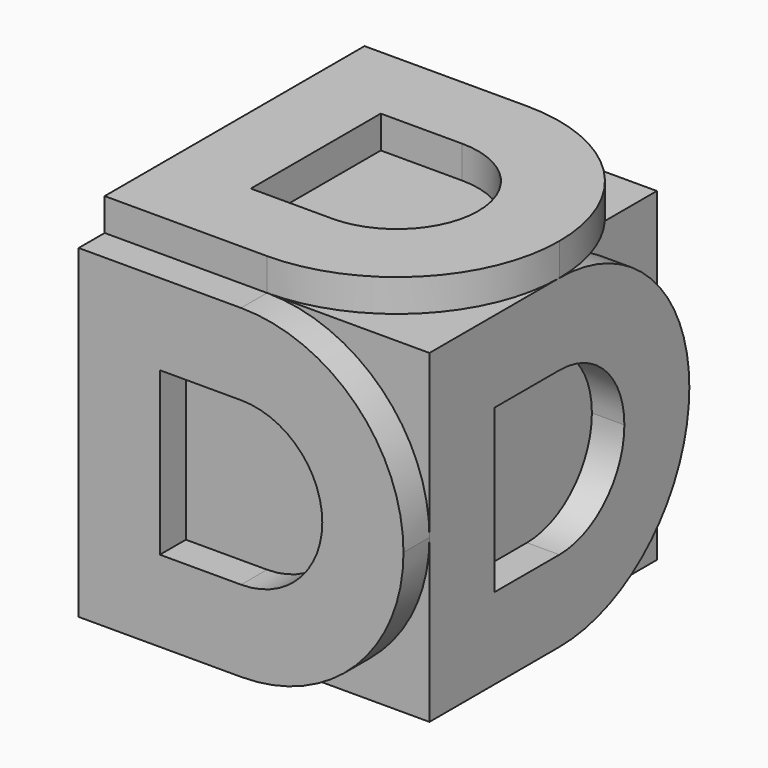
from build123d import *

# Parameters (mm, degrees)
F0_W     = 25.4
F0_H     = 25.4
F1_DEPTH = 25.4
F5_DEPTH = 2.54
F6_DEPTH = 2.54
F7_DEPTH = 2.54


with BuildPart() as f1:
    # F0 (on Top) → F1 (new body)
    with BuildSketch(Plane.XY):
        Rectangle(F0_W, F0_H)
    extrude(amount=F1_DEPTH)

    # F2 (on face) → F5 (join)
    with BuildSketch(Plane.XY.offset(25.4)):
        with BuildLine():
            ThreePointArc((12.7, 0), (8.980256, 8.980256), (0, 12.7))
            Line((0, 12.7), (-12.7, 12.7))
            Line((-12.7, 12.7), (-12.7, -12.7))
            Line((-12.7, -12.7), (0, -12.7))
            ThreePointArc((0, -12.7), (8.980256, -8.980256), (12.7, 0))
        make_face()
        with BuildLine():
            Line((-6.35, -6.35), (-6.35, 6.35))
            Line((-6.35, 6.35), (0, 6.35))
            ThreePointArc((0, 6.35), (4.490128, 4.490128), (6.35, 0))
            ThreePointArc((6.35, 0), (4.490128, -4.490128), (0, -6.35))
            Line((0, -6.35), (-6.35, -6.35))
        make_face(mode=Mode.SUBTRACT)
    extrude(amount=F5_DEPTH)

    # F3 (on face) → F6 (join)
    with BuildSketch(Plane.XZ.offset(12.7)):
        with BuildLine():
            Line((-12.7, 25.4), (-12.7, 0))
            Line((-12.7, 0), (0, 0))
            ThreePointArc((0, 0), (8.980256, 3.719744), (12.7, 12.7))
            ThreePointArc((12.7, 12.7), (8.980256, 21.680256), (0, 25.4))
            Line((0, 25.4), (-12.7, 25.4))
        make_face()
        with BuildLine():
            Line((-6.35, 19.05), (0, 19.05))
            ThreePointArc((0, 19.05), (4.490128, 17.190128), (6.35, 12.7))
            ThreePointArc((6.35, 12.7), (4.490128, 8.209872), (0, 6.35))
            Line((0, 6.35), (-6.35, 6.35))
            Line((-6.35, 6.35), (-6.35, 19.05))
        make_face(mode=Mode.SUBTRACT)
    extrude(amount=F6_DEPTH)

    # F4 (on face) → F7 (cut)
    with BuildSketch(Plane.YZ.offset(12.7)):
        with BuildLine():
            Line((0, 19.05), (-6.35, 19.05))
            Line((-6.35, 19.05), (-6.35, 6.35))
            Line((-6.35, 6.35), (0, 6.35))
            ThreePointArc((0, 6.35), (4.490128, 8.209872), (6.35, 12.7))
            ThreePointArc((6.35, 12.7), (4.490128, 17.190128), (0, 19.05))
        make_face()
        with BuildLine():
            Line((12.7, 25.4), (0, 25.4))
            ThreePointArc((0, 25.4), (8.980256, 21.680256), (12.7, 12.7))
            Line((12.7, 12.7), (12.7, 25.4))
        make_face()
        with BuildLine():
            Line((12.7, 0), (12.7, 12.7))
            ThreePointArc((12.7, 12.7), (8.980256, 3.719744), (0, 0))
            Line((0, 0), (12.7, 0))
        make_face()
    extrude(amount=-F7_DEPTH, mode=Mode.SUBTRACT)


solid = f1.part
